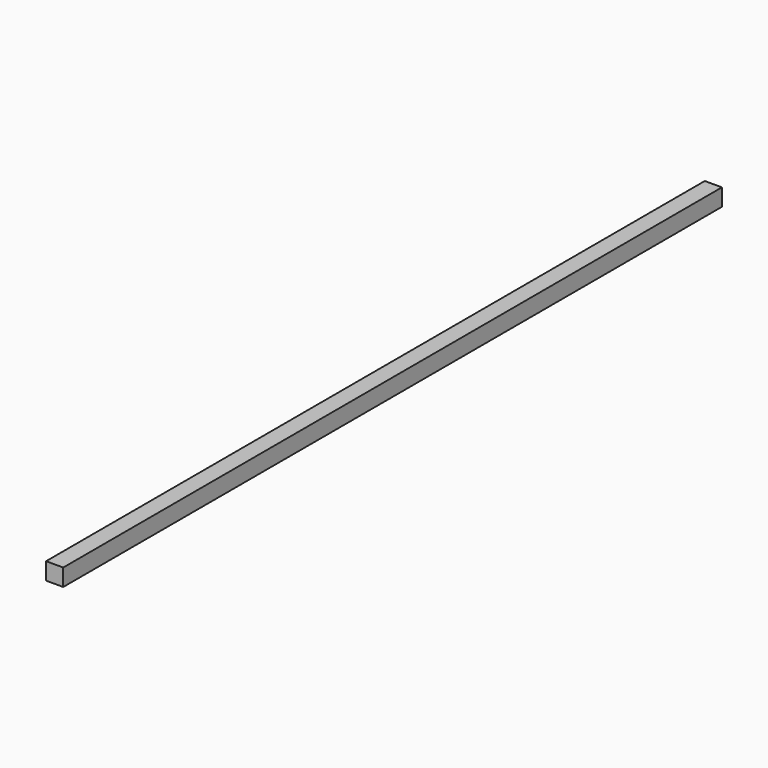
from build123d import *

# Parameters (mm, degrees)
BOX_W     = 12.7
BOX_H     = 609.6
BOX_DEPTH = 12.7


with BuildPart() as part:
    # Box → Box (new body)
    with BuildSketch(Plane.XY):
        with Locations((6.35, 304.8)):
            Rectangle(BOX_W, BOX_H)
    extrude(amount=BOX_DEPTH)


solid = part.part
